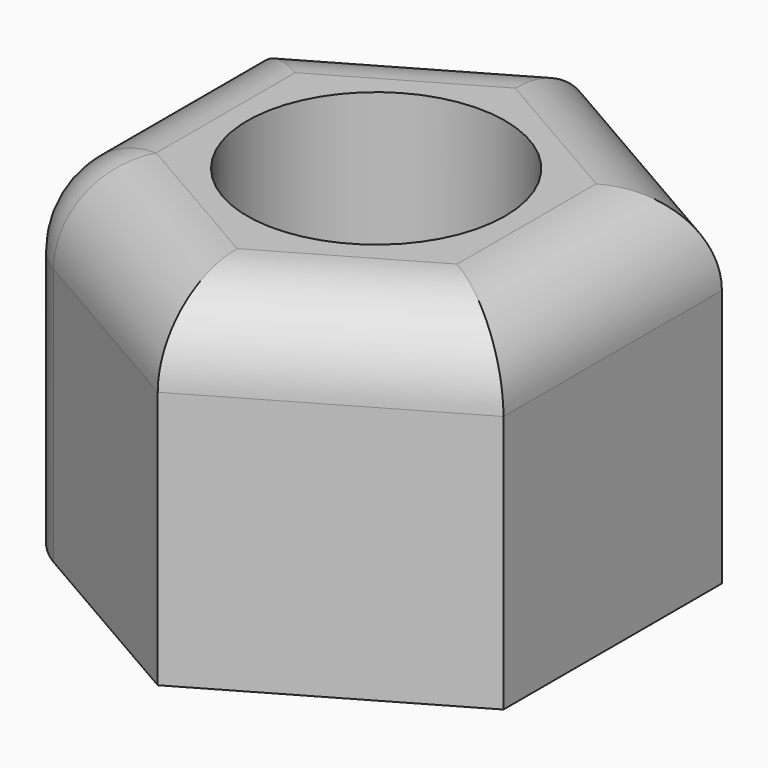
from build123d import *

# Parameters (mm, degrees)
F0_R     = 1.5
F1_DEPTH = 4
F2_R     = 1


with BuildPart() as f1:
    # F0 (on Top) → F1 (new body)
    with BuildSketch(Plane.XY):
        Polygon((2.75, -1.587713), (2.75, 1.587713), (0, 3.175426), (-2.75, 1.587713), (-2.75, -1.587713), (0, -3.175426), align=None)
        Circle(F0_R, mode=Mode.SUBTRACT)
    extrude(amount=F1_DEPTH)

    # F2
    f2_edges = [f1.edges().sort_by_distance(p)[0] for p in [
        (1.375, 2.38157, 4),
        (1.375, -2.38157, 4),
        (-2.75, -1.587713, 2),
        (-2.75, 0, 4),
        (-1.375, 2.38157, 4),
        (2.75, 0, 4),
        (-1.375, -2.38157, 4),
    ]]
    fillet(f2_edges, radius=F2_R)


solid = f1.part
